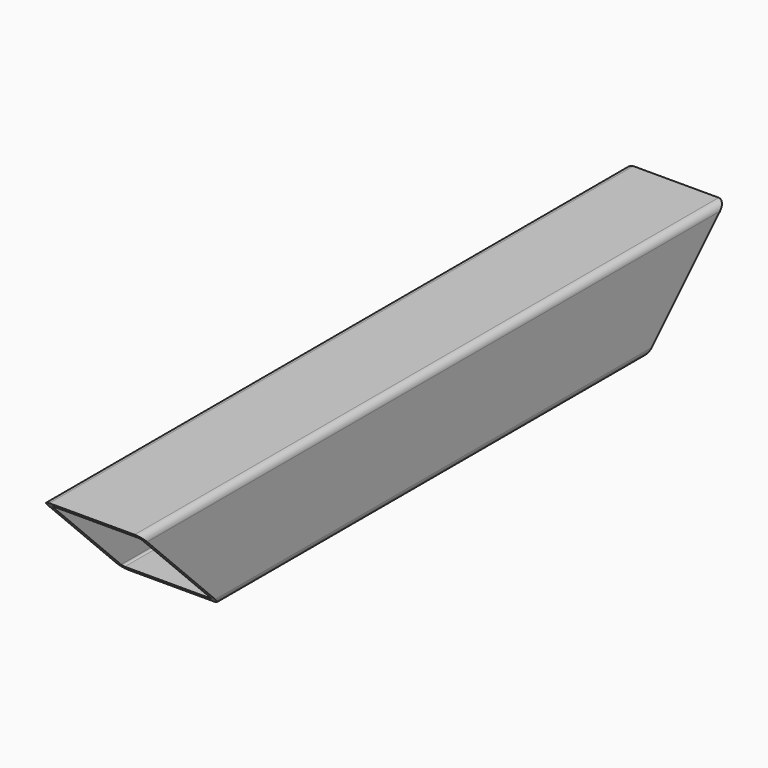
from build123d import *

# Parameters (mm, degrees)
F1_DEPTH = 368.25
F3_DEPTH = 100.001


with BuildPart() as f1:
    # F0 (on Front) → F1 (new body, symmetric)
    with BuildSketch(Plane.XZ):
        with BuildLine():
            ThreePointArc((50, 43), (47.9497474683, 47.9497474683), (43, 50))
            Line((43, 50), (-43, 50))
            ThreePointArc((-43, 50), (-47.9497474683, 47.9497474683), (-50, 43))
            Line((-50, 43), (-50, -43))
            ThreePointArc((-50, -43), (-47.9497474683, -47.9497474683), (-43, -50))
            Line((-43, -50), (43, -50))
            ThreePointArc((43, -50), (47.9497474683, -47.9497474683), (50, -43))
            Line((50, -43), (50, 43))
        make_face()
        with BuildLine():
            ThreePointArc((45, -43), (44.4142135624, -44.4142135624), (43, -45))
            Line((43, -45), (-43, -45))
            ThreePointArc((-43, -45), (-44.4142135624, -44.4142135624), (-45, -43))
            Line((-45, -43), (-45, 43))
            ThreePointArc((-45, 43), (-44.4142135624, 44.4142135624), (-43, 45))
            Line((-43, 45), (43, 45))
            ThreePointArc((43, 45), (44.4142135624, 44.4142135624), (45, 43))
            Line((45, 43), (45, -43))
        make_face(mode=Mode.SUBTRACT)
    extrude(amount=F1_DEPTH, both=True)

    # F2 (on face) → F3 (cut, through all)
    with BuildSketch(Plane.YZ.offset(50)):
        Polygon((-368.25, -50), (-268.25, -50), (-368.25, 50), align=None)
        Polygon((368.25, 50), (268.25, -50), (368.25, -50), align=None)
    extrude(amount=-F3_DEPTH, mode=Mode.SUBTRACT)


solid = f1.part
